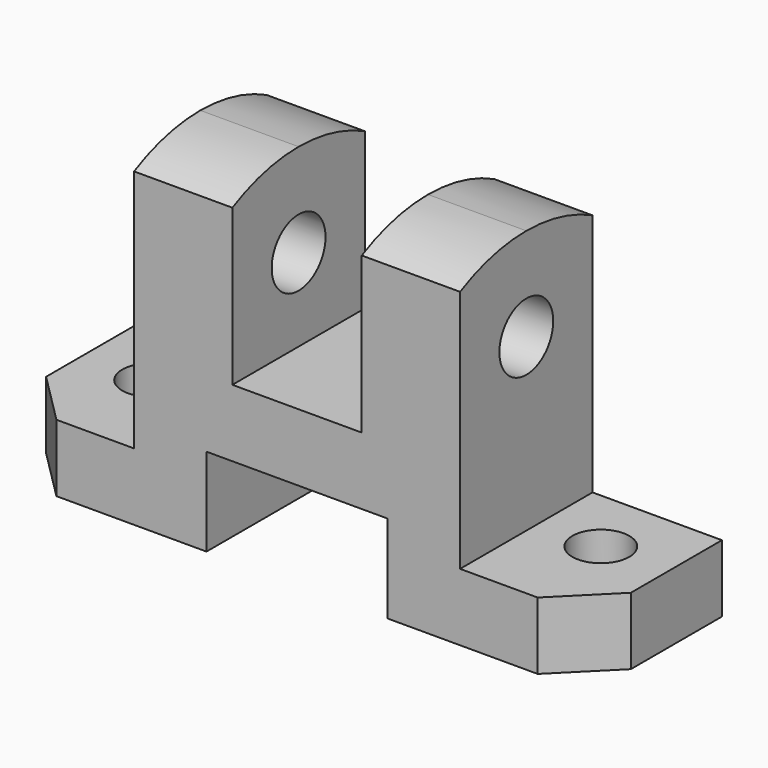
from build123d import *

# Parameters (mm, degrees)
F0_W      = 113
F0_H      = 32
F1_DEPTH  = 64
F2_W      = 35
F2_H      = 17
F3_DEPTH  = 32.001
F4_W      = 25
F4_H      = 34
F5_DEPTH  = 32.001
F6_W      = 25
F6_H      = 51
F7_DEPTH  = 32.001
F8_R      = 5.5
F9_DEPTH  = 13.001
F10_R     = 6.5
F11_DEPTH = 88.001
F14_DEPTH = 13.001
F16_DEPTH = 88.001


with BuildPart() as f1:
    # F0 (on Top) → F1 (new body)
    with BuildSketch(Plane.XY):
        with Locations((56.5, 16)):
            Rectangle(F0_W, F0_H)
    extrude(amount=F1_DEPTH)

    # F2 (on face) → F3 (cut, through all)
    with BuildSketch(Plane.XZ):
        with Locations((56.5, 8.5)):
            Rectangle(F2_W, F2_H)
    extrude(amount=-F3_DEPTH, mode=Mode.SUBTRACT)

    # F4 (on face) → F5 (cut, through all)
    with BuildSketch(Plane.XZ):
        with Locations((56.5, 47)):
            Rectangle(F4_W, F4_H)
    extrude(amount=-F5_DEPTH, mode=Mode.SUBTRACT)

    # F6 (on face) → F7 (cut, through all)
    with BuildSketch(Plane.XZ):
        with Locations((12.5, 38.5)):
            Rectangle(F6_W, F6_H)
        with Locations((100.5, 38.5)):
            Rectangle(F6_W, F6_H)
    extrude(amount=-F7_DEPTH, mode=Mode.SUBTRACT)

    # F8 (on face) → F9 (cut, through all)
    with BuildSketch(Plane.XY.offset(13)):
        with Locations((100, 19)):
            Circle(F8_R)
        with Locations((13, 19.0096189432)):
            Circle(F8_R)
    extrude(amount=-F9_DEPTH, mode=Mode.SUBTRACT)

    # F10 (on face) → F11 (cut, through all)
    with BuildSketch(Plane.YZ.offset(88)):
        with Locations((16, 46)):
            Circle(F10_R)
    extrude(amount=-F11_DEPTH, mode=Mode.SUBTRACT)

    # F12 (on face) + F13 (on face) → F14 (cut, through all)
    with BuildSketch(Plane.XY.offset(13)):
        Polygon((10, 0), (0, 10), (0, 0), align=None)
    with BuildSketch(Plane.XY.offset(13)):
        Polygon((113, 0), (113, 10), (103, 0), align=None)
    extrude(amount=-F14_DEPTH, mode=Mode.SUBTRACT)

    # F15 (on face) → F16 (cut, through all)
    with BuildSketch(Plane.YZ.offset(88)):
        with BuildLine():
            ThreePointArc((0, 60.1287648325), (7.7691668232, 63.018427142), (16.0000000808, 64))
            Line((16.0000000808, 64), (0, 64))
            Line((0, 64), (0, 60.1287648325))
        make_face()
        with BuildLine():
            ThreePointArc((16.0000000808, 64), (24.2308332553, 63.018427123), (32, 60.1287648325))
            Line((32, 60.1287648325), (32, 64))
            Line((32, 64), (16.0000000808, 64))
        make_face()
    extrude(amount=-F16_DEPTH, mode=Mode.SUBTRACT)


solid = f1.part
